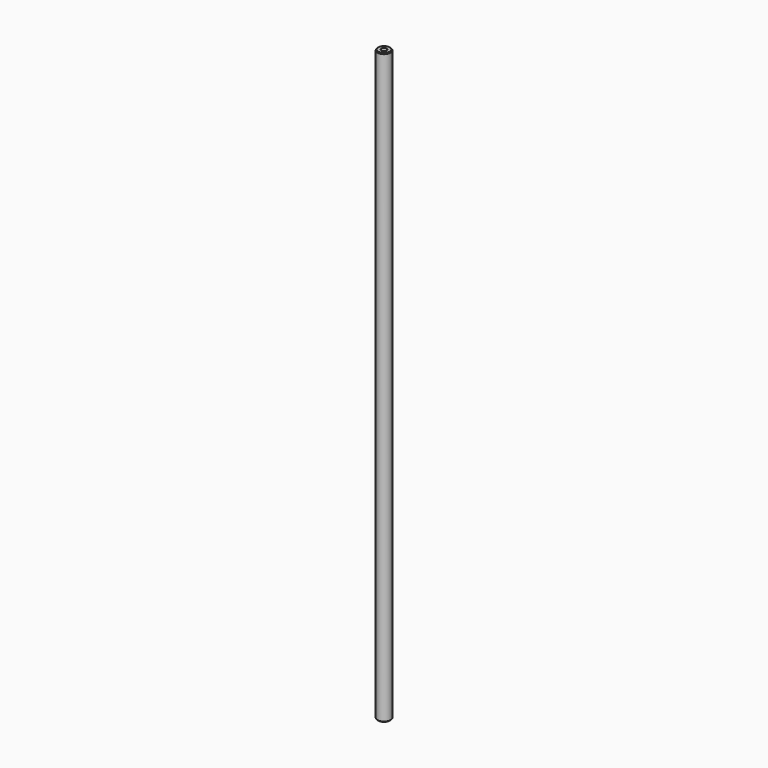
from build123d import *

# Parameters (mm, degrees)
SKETCH_R        = 4
PAD_DEPTH       = 360
CHAMFER_SIZE    = 0.5
SKETCH001_R     = 1.62
POCKET_DEPTH    = 15
SKETCH002_R     = 1.62
POCKET001_DEPTH = 15
CHAMFER001_SIZE = 1.62


with BuildPart() as part:
    # Sketch → Pad (new body)
    with BuildSketch(Plane.XY):
        Circle(SKETCH_R)
    extrude(amount=PAD_DEPTH)

    # Chamfer
    chamfer_edges = [part.edges().sort_by_distance(p)[0] for p in [
        (-4, 0, 0),
        (-4, 0, 360),
    ]]
    chamfer(chamfer_edges, length=CHAMFER_SIZE)

    # Sketch001 → Pocket (cut)
    with BuildSketch(Plane.XY.offset(360)):
        Circle(SKETCH001_R)
    extrude(amount=-POCKET_DEPTH, mode=Mode.SUBTRACT)

    # Sketch002 → Pocket001 (cut)
    with BuildSketch(Plane(origin=(0, 0, 0), x_dir=(1, 0, 0), z_dir=(0, 0, -1))):
        Circle(SKETCH002_R)
    extrude(amount=-POCKET001_DEPTH, mode=Mode.SUBTRACT)

    # Chamfer001
    chamfer001_edges = [part.edges().sort_by_distance(p)[0] for p in [
        (-1.62, 0, 15),
        (-1.62, 0, 345),
    ]]
    chamfer(chamfer001_edges, length=CHAMFER001_SIZE)


solid = part.part
